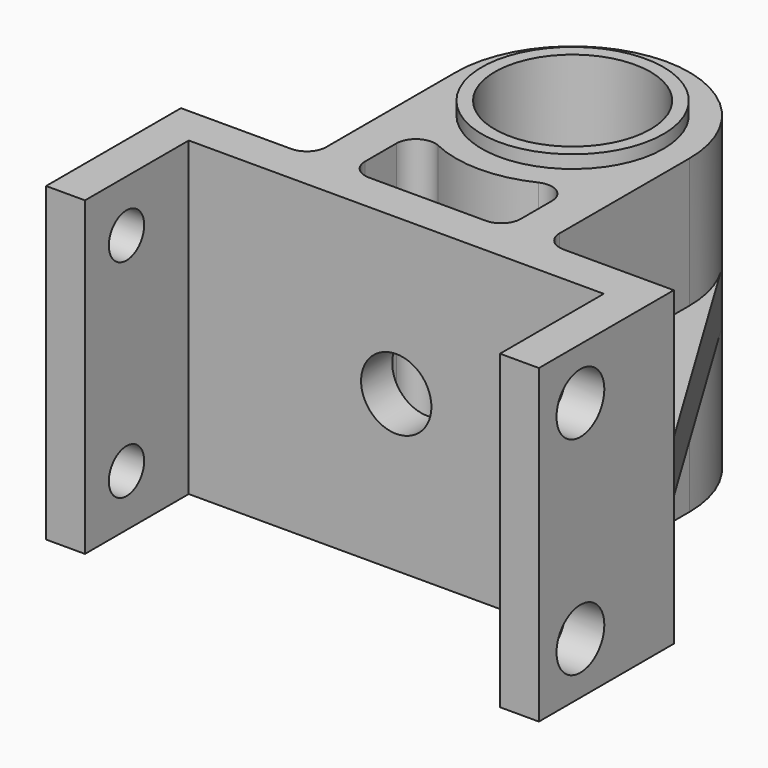
from build123d import *

# Parameters (mm, degrees)
F0_R           = 4.7625
F1_DEPTH       = 19.05
F2_R           = 1.8288
F3_DEPTH       = 2.38125
F4_R           = 1.35255
F5_DEPTH       = 2.38125
F8_DEPTH       = 1.5875
F9_R           = 5.55625
F9_R_2         = 4.7625
F11_DEPTH      = 0.79375
F11_DEPTH_BACK = 19.84375
F12_R          = 1.7272
F13_DEPTH      = 10.0554862042
F15_DEPTH      = 19.05
F16_R          = 2.15265
F17_DEPTH      = 2.38125
F18_R          = 1.190625


with BuildPart() as f1:
    # F0 (on Top) → F1 (new body)
    with BuildSketch(Plane.XY):
        with BuildLine():
            Line((7.14375, -11.1125), (7.14375, 0))
            ThreePointArc((7.14375, 0), (0, 7.14375), (-7.14375, 0))
            Line((-7.14375, 0), (-7.14375, -11.1125))
            Line((-7.14375, -11.1125), (-15.08125, -11.1125))
            Line((-15.08125, -11.1125), (-15.08125, -21.43125))
            Line((-15.08125, -21.43125), (-12.7, -21.43125))
            Line((-12.7, -21.43125), (-12.7, -13.49375))
            Line((-12.7, -13.49375), (12.7, -13.49375))
            Line((12.7, -13.49375), (12.7, -21.43125))
            Line((12.7, -21.43125), (15.08125, -21.43125))
            Line((15.08125, -21.43125), (15.08125, -11.1125))
            Line((15.08125, -11.1125), (7.14375, -11.1125))
        make_face()
        Circle(F0_R, mode=Mode.SUBTRACT)
    extrude(amount=F1_DEPTH)

    # F2 (on face) → F3 (cut, through all)
    with BuildSketch(Plane.YZ.offset(15.08125)):
        with Locations((-18.25625, 15.875)):
            Circle(F2_R)
        with Locations((-18.25625, 3.175)):
            Circle(F2_R)
    extrude(amount=-F3_DEPTH, mode=Mode.SUBTRACT)

    # F4 (on face) → F5 (cut, through all)
    with BuildSketch(Plane(origin=(-15.08125, 0, 0), x_dir=(0, -1, 0), z_dir=(-1, 0, 0))):
        with Locations((18.25625, 3.175)):
            Circle(F4_R)
        with Locations((18.25625, 15.875)):
            Circle(F4_R)
    extrude(amount=-F5_DEPTH, mode=Mode.SUBTRACT)

    # F7 (on offset) → F8 (join, symmetric)
    with BuildSketch(Plane(origin=(0, 0, 9.525), x_dir=(1, 0, 0), z_dir=(0, 0, -1))):
        with BuildLine():
            Line((-15.08125, 11.1125), (-6.1105859798, -3.7005274011))
            ThreePointArc((-6.1105859798, -3.7005274011), (-6.8806127146, -1.9210238767), (-7.14375, 0))
            Line((-7.14375, 0), (-7.14375, 11.1125))
            Line((-7.14375, 11.1125), (-15.08125, 11.1125))
        make_face()
        with BuildLine():
            ThreePointArc((7.14375, 0), (6.8806127146, -1.9210238767), (6.1105859798, -3.7005274011))
            Line((6.1105859798, -3.7005274011), (15.08125, 11.1125))
            Line((15.08125, 11.1125), (7.14375, 11.1125))
            Line((7.14375, 11.1125), (7.14375, 0))
        make_face()
    extrude(amount=F8_DEPTH, both=True)

    # F9 (on face) → F11 (join, two sides)
    with BuildSketch(Plane(origin=(0, 0, 0), x_dir=(1, 0, 0), z_dir=(0, 0, -1))) as f11_sk:
        Circle(F9_R)
        Circle(F9_R_2, mode=Mode.SUBTRACT)
    extrude(amount=F11_DEPTH)
    extrude(f11_sk.sketch, amount=-F11_DEPTH_BACK)

    # F12 (on face) → F13 (cut, up to face)
    with BuildSketch(Plane.XZ.offset(13.49375)):
        with Locations((0, 9.525)):
            Circle(F12_R)
    extrude(amount=-F13_DEPTH, mode=Mode.SUBTRACT)

    # F14 (on face) → F15 (cut, through all)
    with BuildSketch(Plane.XY.offset(19.05)):
        with BuildLine():
            Line((-4.7625, -5.3246368714), (-4.7625, -11.1125))
            Line((-4.7625, -11.1125), (4.7625, -11.1125))
            Line((4.7625, -11.1125), (4.7625, -5.3246368714))
            ThreePointArc((4.7625, -5.3246368714), (0, -7.14375), (-4.7625, -5.3246368714))
        make_face()
    extrude(amount=-F15_DEPTH, mode=Mode.SUBTRACT)

    # F16 (on face) → F17 (cut, through all)
    with BuildSketch(Plane.XZ.offset(13.49375)):
        with Locations((0, 9.525)):
            Circle(F16_R)
    extrude(amount=-F17_DEPTH, mode=Mode.SUBTRACT)

    # F18
    f18_edges = [f1.edges().sort_by_distance(p)[0] for p in [
        (7.14375, -11.1125, 15.08125),
        (7.14375, -11.1125, 3.96875),
        (-7.14375, -11.1125, 15.08125),
        (-7.14375, -11.1125, 3.96875),
        (-4.7625, -11.1125, 9.525),
        (4.7625, -11.1125, 9.525),
        (4.7625, -5.324637, 9.525),
        (-4.7625, -5.324637, 9.525),
    ]]
    fillet(f18_edges, radius=F18_R)


solid = f1.part
